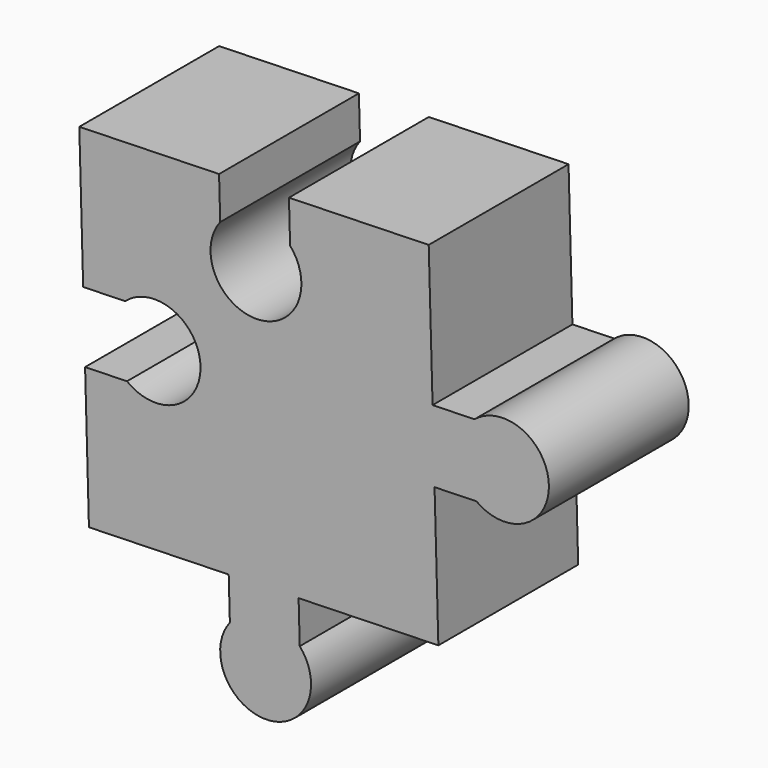
from build123d import *

# Parameters (mm, degrees)
F1_DEPTH = 12.7


with BuildPart() as f1:
    # F0 (on Front) → F1 (new body)
    with BuildSketch(Plane.XZ):
        with BuildLine():
            Line((-10.867325, 6.717781), (-21.023455, 6.437397))
            Line((-21.023455, 6.437397), (-20.743071, -3.718733))
            Line((-20.743071, -3.718733), (-17.696232, -3.634618))
            ThreePointArc((-17.696232, -3.634618), (-12.216315, -6.0243), (-17.55604, -8.712683))
            Line((-17.55604, -8.712683), (-20.602879, -8.796799))
            Line((-20.602879, -8.796799), (-20.322495, -18.952929))
            Line((-20.322495, -18.952929), (-10.166365, -18.672545))
            Line((-10.166365, -18.672545), (-5.088299, -18.532353))
            Line((-5.088299, -18.532353), (5.067831, -18.251969))
            Line((5.067831, -18.251969), (4.790878, -8.220124))
            Line((4.790878, -8.220124), (4.647255, -3.017773))
            Line((4.647255, -3.017773), (4.366871, 7.138357))
            Line((4.366871, 7.138357), (-5.78926, 6.857973))
            Line((-5.78926, 6.857973), (-5.705144, 3.811134))
            ThreePointArc((-5.705144, 3.811134), (-8.094826, -1.668783), (-10.78321, 3.670942))
            Line((-10.78321, 3.670942), (-10.867325, 6.717781))
        make_face()
        with BuildLine():
            Line((-5.088299, -18.532353), (-10.166365, -18.672545))
            Line((-10.166365, -18.672545), (-10.082249, -21.719384))
            ThreePointArc((-10.082249, -21.719384), (-7.393866, -27.059109), (-5.004184, -21.579192))
            Line((-5.004184, -21.579192), (-5.088299, -18.532353))
        make_face()
        with BuildLine():
            Line((7.694094, -2.933658), (4.647255, -3.017773))
            Line((4.647255, -3.017773), (4.790878, -8.220124))
            Line((4.790878, -8.220124), (7.837717, -8.136009))
            ThreePointArc((7.837717, -8.136009), (13.098589, -5.387612), (7.694094, -2.933658))
        make_face()
    extrude(amount=F1_DEPTH)


solid = f1.part
